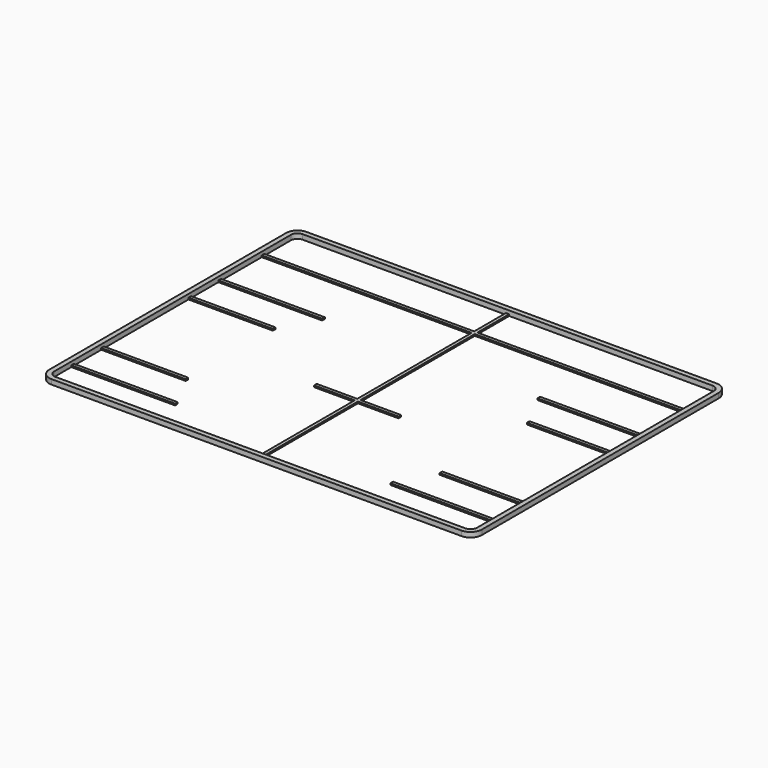
from build123d import *

# Parameters (mm, degrees)
F1_DEPTH = 1.5
F0_W     = 64.5
F0_H     = 1
F0_W_2   = 1
F0_W_3   = 31.9007062912
F0_H_2   = 12.2398320138
F0_W_4   = 25.9428420663
F0_W_5   = 12.4608716816
F2_DEPTH = 0.5


with BuildPart() as f1:
    # F0 (on Top) → F1 (new body)
    with BuildSketch(Plane.XY):
        with BuildLine():
            Line((-63, -49), (63, -49))
            ThreePointArc((63, -49), (65.4748737342, -47.9748737342), (66.5, -45.5))
            Line((66.5, -45.5), (66.5, 45.5))
            ThreePointArc((66.5, 45.5), (65.4748737342, 47.9748737342), (63, 49))
            Line((63, 49), (-63, 49))
            ThreePointArc((-63, 49), (-65.4748737342, 47.9748737342), (-66.5, 45.5))
            Line((-66.5, 45.5), (-66.5, -45.5))
            ThreePointArc((-66.5, -45.5), (-65.4748737342, -47.9748737342), (-63, -49))
        make_face()
        with BuildLine():
            Line((0.5, 47.5), (63, 47.5))
            ThreePointArc((63, 47.5), (64.4142135624, 46.9142135624), (65, 45.5))
            Line((65, 45.5), (65, 35.2601679862))
            Line((65, 35.2601679862), (65, 34.2601679862))
            Line((65, 34.2601679862), (65, 18.6124684513))
            Line((65, 18.6124684513), (65, 17.6124684513))
            Line((65, 17.6124684513), (65, 7.1))
            Line((65, 7.1), (65, 6.1))
            Line((65, 6.1), (65, -26.4))
            Line((65, -26.4), (65, -27.4))
            Line((65, -27.4), (65, -37.9124684513))
            Line((65, -37.9124684513), (65, -38.9124684513))
            Line((65, -38.9124684513), (65, -45.5))
            ThreePointArc((65, -45.5), (64.4142135624, -46.9142135624), (63, -47.5))
            Line((63, -47.5), (0.5, -47.5))
            Line((0.5, -47.5), (-0.5, -47.5))
            Line((-0.5, -47.5), (-63, -47.5))
            ThreePointArc((-63, -47.5), (-64.4142135624, -46.9142135624), (-65, -45.5))
            Line((-65, -45.5), (-65, -38.9124684513))
            Line((-65, -38.9124684513), (-65, -37.9124684513))
            Line((-65, -37.9124684513), (-65, -27.4))
            Line((-65, -27.4), (-65, -26.4))
            Line((-65, -26.4), (-65, 6.1))
            Line((-65, 6.1), (-65, 7.1))
            Line((-65, 7.1), (-65, 17.6124684513))
            Line((-65, 17.6124684513), (-65, 18.6124684513))
            Line((-65, 18.6124684513), (-65, 34.2601679862))
            Line((-65, 34.2601679862), (-65, 35.2601679862))
            Line((-65, 35.2601679862), (-65, 45.5))
            ThreePointArc((-65, 45.5), (-64.4142135624, 46.9142135624), (-63, 47.5))
            Line((-63, 47.5), (-0.5, 47.5))
            Line((-0.5, 47.5), (0.5, 47.5))
        make_face(mode=Mode.SUBTRACT)
    extrude(amount=F1_DEPTH)

    # F0 (on Top) → F2 (join)
    with BuildSketch(Plane.XY):
        with Locations((-32.75, 34.7601679862)):
            Rectangle(F0_W, F0_H)
        with Locations((0, 34.7601679862)):
            Rectangle(F0_W_2, F0_H)
        with Locations((32.75, 34.7601679862)):
            Rectangle(F0_W, F0_H)
        with Locations((49.0496468544, 18.1124684513)):
            Rectangle(F0_W_3, F0_H)
        Polygon((0.5, -9.65), (0.5, 34.2601679862), (-0.5, 34.2601679862), (-0.5, -9.65), (-0.5, -10.65), (-0.5, -47.5), (0.5, -47.5), (0.5, -10.65), align=None)
        with Locations((0, 41.3800839931)):
            Rectangle(F0_W_2, F0_H_2)
        with Locations((-49.0496468544, 18.1124684513)):
            Rectangle(F0_W_3, F0_H)
        with Locations((52.0285789669, 6.6)):
            Rectangle(F0_W_4, F0_H)
        with Locations((52.0285789669, -26.9)):
            Rectangle(F0_W_4, F0_H)
        with Locations((6.7304358408, -10.15)):
            Rectangle(F0_W_5, F0_H)
        with Locations((-52.0285789669, 6.6)):
            Rectangle(F0_W_4, F0_H)
        with Locations((-6.7304358408, -10.15)):
            Rectangle(F0_W_5, F0_H)
        with Locations((-52.0285789669, -26.9)):
            Rectangle(F0_W_4, F0_H)
        with Locations((-49.0496468544, -38.4124684513)):
            Rectangle(F0_W_3, F0_H)
        with Locations((49.0496468544, -38.4124684513)):
            Rectangle(F0_W_3, F0_H)
    extrude(amount=F2_DEPTH)


solid = f1.part
